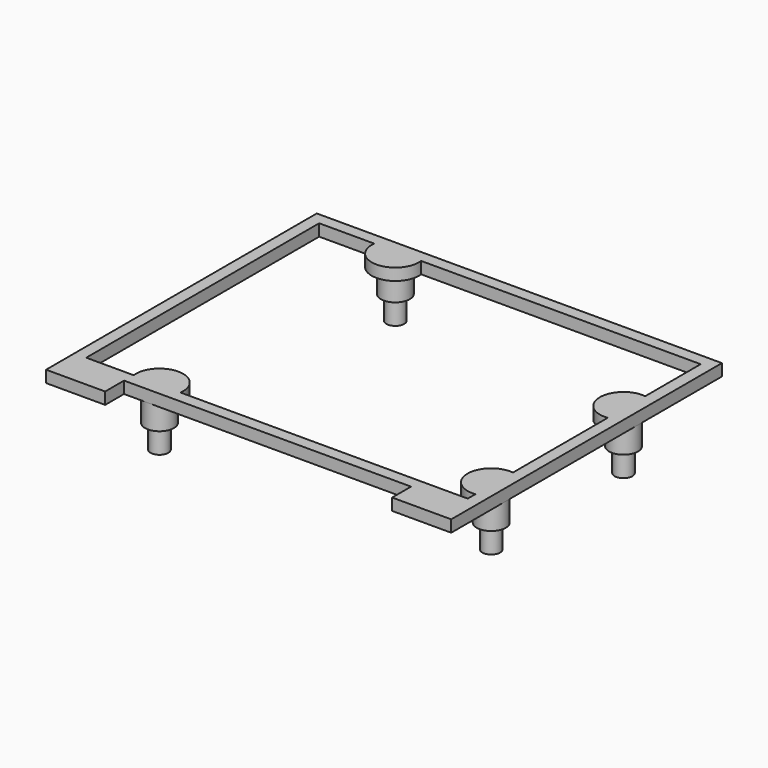
from build123d import *

# Parameters (mm, degrees)
PAD003_DEPTH = 2
SKETCH014_R  = 1.5
PAD005_DEPTH = 8
SKETCH015_R  = 2.45
PAD006_DEPTH = 4


with BuildPart() as part:
    # Sketch012 → Pad003 (new body)
    with BuildSketch(Plane.XY):
        Polygon((-15, 75.3), (53.6, 75.3), (53.6, 24.12132), (53.6, 18), (43.6, 18), (43.6, 22), (-5, 22), (-5, 18), (-15, 18), (-15, 22), align=None)
        with BuildLine():
            Line((-13, 73.3), (-3.668627, 73.3))
            ThreePointArc((-3.668627, 73.3), (0.3, 68.8), (4.268627, 73.3))
            Line((4.268627, 73.3), (51.6, 73.3))
            Line((51.6, 73.3), (51.6, 61.568627))
            ThreePointArc((51.6, 61.568627), (47.1, 57.6), (51.6, 53.631373))
            Line((51.6, 53.631373), (51.6, 33.568627))
            ThreePointArc((51.6, 33.568627), (47.1, 29.6), (51.6, 25.631373))
            Line((51.6, 25.631373), (51.6, 24))
            Line((51.6, 24), (2.968627, 24))
            ThreePointArc((2.968627, 24), (-1, 28.5), (-4.968627, 24))
            Line((-4.968627, 24), (-13, 24))
            Line((-13, 24), (-13, 73.3))
        make_face(mode=Mode.SUBTRACT)
    extrude(amount=PAD003_DEPTH)

    # Sketch014 → Pad005 (join)
    with BuildSketch(Plane.XY):
        with Locations((0.3, 72.8)):
            Circle(SKETCH014_R)
        with Locations((51.1, 57.6)):
            Circle(SKETCH014_R)
        with Locations((51.1, 29.6)):
            Circle(SKETCH014_R)
        with Locations((-1, 24.5)):
            Circle(SKETCH014_R)
    extrude(amount=-PAD005_DEPTH)

    # Sketch015 → Pad006 (join)
    with BuildSketch(Plane.XY):
        with Locations((0.3, 72.8)):
            Circle(SKETCH015_R)
        with Locations((51.1, 57.6)):
            Circle(SKETCH015_R)
        with Locations((51.1, 29.6)):
            Circle(SKETCH015_R)
        with Locations((-1, 24.5)):
            Circle(SKETCH015_R)
    extrude(amount=-PAD006_DEPTH)


solid = part.part
